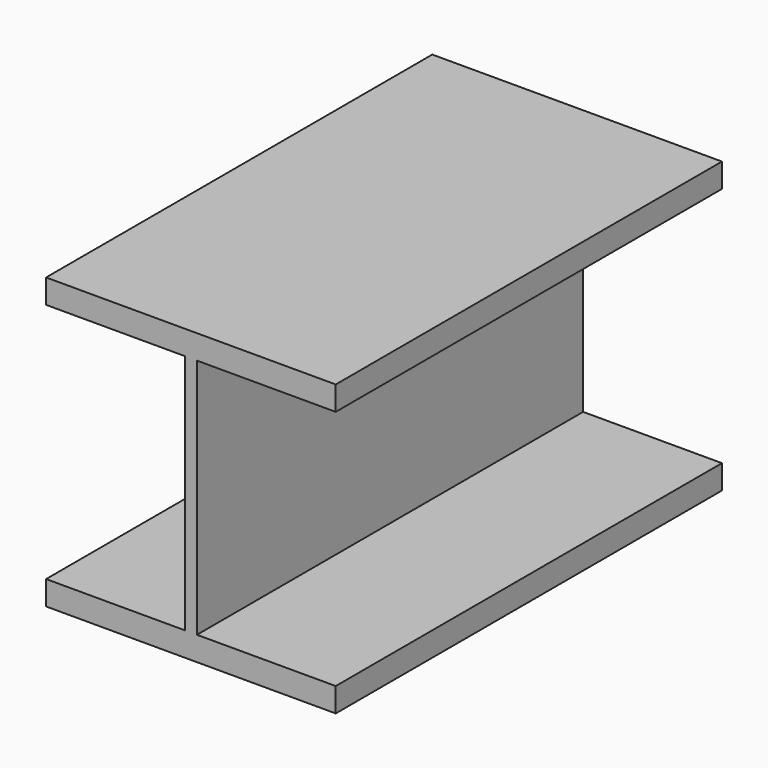
from build123d import *

# Parameters (mm, degrees)
F0_W     = 6.35
F0_H     = 127
F1_DEPTH = 254


with BuildPart() as f1:
    # F0 (on Front) → F1 (new body)
    with BuildSketch(Plane.XZ):
        Polygon((76.2, -63.5), (3.175, -63.5), (-3.175, -63.5), (-76.2, -63.5), (-76.2, -76.2), (76.2, -76.2), align=None)
        Polygon((-3.175, 63.5), (3.175, 63.5), (76.2, 63.5), (76.2, 76.2), (-76.2, 76.2), (-76.2, 63.5), align=None)
        Rectangle(F0_W, F0_H)
    extrude(amount=F1_DEPTH)


solid = f1.part
